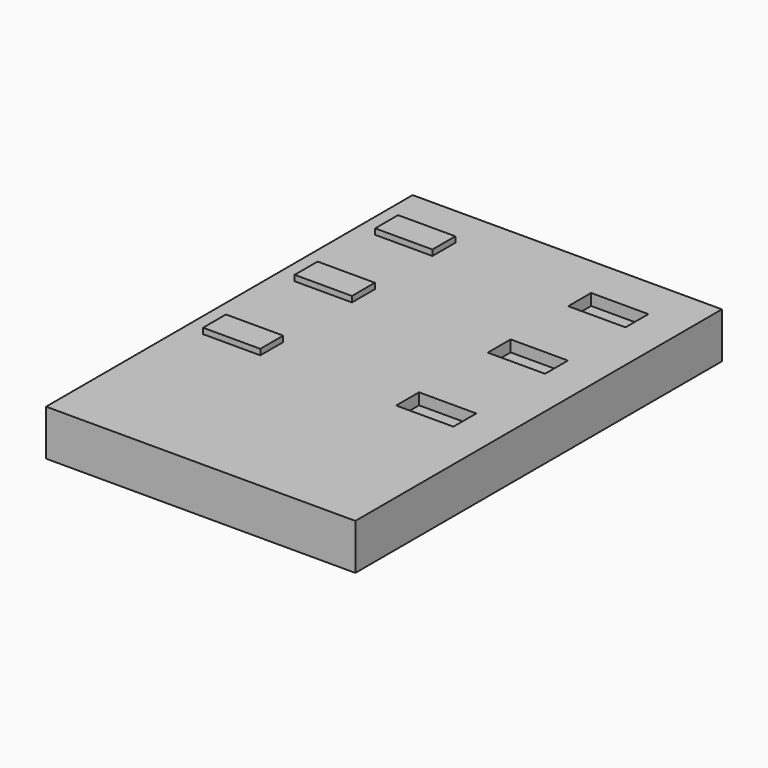
from build123d import *

# Parameters (mm, degrees)
F0_W     = 54
F0_H     = 80
F1_DEPTH = 8
F2_W     = 10
F2_H     = 5
F3_DEPTH = 1
F4_W     = 10
F4_H     = 5
F5_DEPTH = 2


with BuildPart() as f1:
    # F0 (on Top) → F1 (new body)
    with BuildSketch(Plane.XY):
        Rectangle(F0_W, F0_H)
    extrude(amount=F1_DEPTH)

    # F2 (on face) → F3 (join)
    with BuildSketch(Plane.XY.offset(8)):
        with Locations((-18.653328, 30.132598)):
            Rectangle(F2_W, F2_H)
        with Locations((-18.653328, 12.571623)):
            Rectangle(F2_W, F2_H)
        with Locations((-18.653328, -7.428377)):
            Rectangle(F2_W, F2_H)
    extrude(amount=F3_DEPTH)

    # F4 (on face) → F5 (cut)
    with BuildSketch(Plane.XY.offset(8)):
        with Locations((15.056205, 30.132598)):
            Rectangle(F4_W, F4_H)
        with Locations((15.056205, 12.571623)):
            Rectangle(F4_W, F4_H)
        with Locations((15.056205, -7.428377)):
            Rectangle(F4_W, F4_H)
    extrude(amount=-F5_DEPTH, mode=Mode.SUBTRACT)


solid = f1.part
